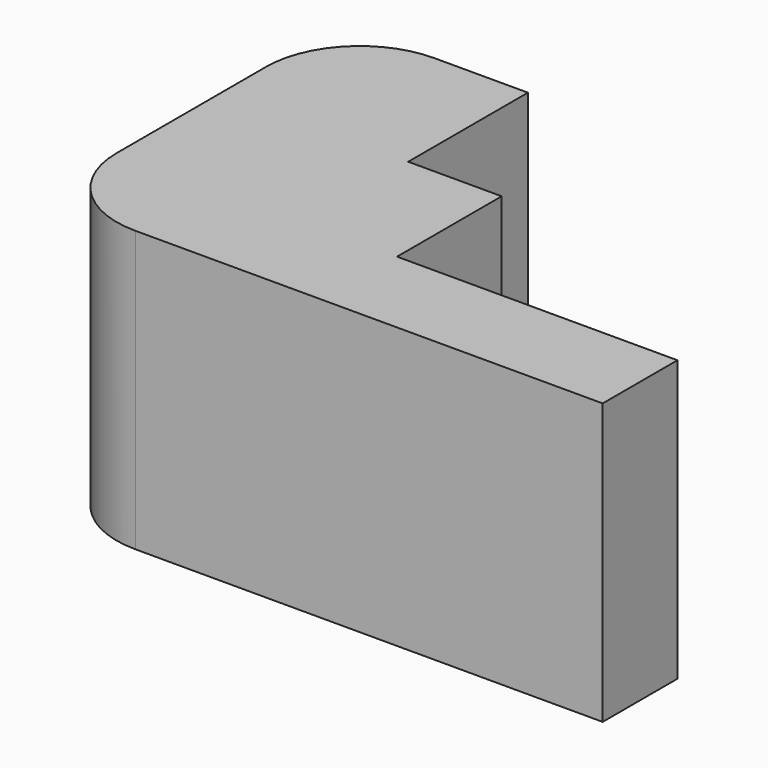
from build123d import *

# Parameters (mm, degrees)
F1_DEPTH = 30


with BuildPart() as f1:
    # F0 (on Top) → F1 (new body)
    with BuildSketch(Plane.XY):
        with BuildLine():
            ThreePointArc((0, 10), (2.928932, 2.928932), (10, 0))
            Line((10, 0), (60, 0))
            Line((60, 0), (60, 10))
            Line((60, 10), (30, 10))
            Line((30, 10), (30, 23.99263))
            Line((30, 23.99263), (20, 23.99263))
            Line((20, 23.99263), (20, 40))
            Line((20, 40), (10, 40))
            ThreePointArc((10, 40), (2.928932, 37.071068), (0, 30))
            Line((0, 30), (0, 10))
        make_face()
    extrude(amount=F1_DEPTH)


solid = f1.part
